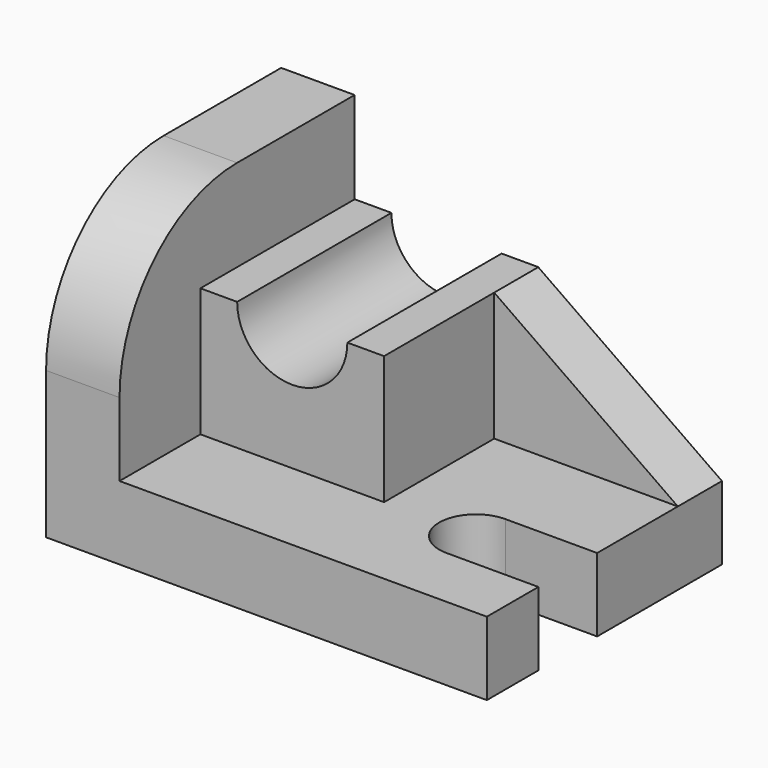
from build123d import *

# Parameters (mm, degrees)
F0_W      = 96
F0_H      = 64
F1_DEPTH  = 16
F2_W      = 16
F2_H      = 64
F3_DEPTH  = 48
F4_R      = 32
F5_W      = 40
F5_H      = 42
F6_DEPTH  = 28
F7_W      = 40
F7_H      = 12
F8_DEPTH  = 28
F10_DEPTH = 25.4
F11_R     = 12
F12_DEPTH = 63.246
F14_DEPTH = 25.4


with BuildPart() as f1:
    # F0 (on Top) → F1 (new body)
    with BuildSketch(Plane.XY):
        with Locations((-0.3420451991, 1.5907883644)):
            Rectangle(F0_W, F0_H)
    extrude(amount=F1_DEPTH)

    # F2 (on face) → F3 (join)
    with BuildSketch(Plane.XY.offset(16)):
        with Locations((-40.3420451991, 1.5907883644)):
            Rectangle(F2_W, F2_H)
    extrude(amount=F3_DEPTH)

    # F4
    f4_edges = [f1.edges().sort_by_distance(p)[0] for p in [
        (-40.342045, -30.409212, 64),
    ]]
    fillet(f4_edges, radius=F4_R)

    # F5 (on face) → F6 (join)
    with BuildSketch(Plane.XY.offset(16)):
        with Locations((-12.3420451991, 12.61113044)):
            Rectangle(F5_W, F5_H)
    extrude(amount=F6_DEPTH)

    # F7 (on face) → F8 (join)
    with BuildSketch(Plane.XY.offset(16)):
        with Locations((27.6579548009, 27.5907883644)):
            Rectangle(F7_W, F7_H)
    extrude(amount=F8_DEPTH)

    # F9 (on face) → F10 (cut)
    with BuildSketch(Plane.XZ.offset(-21.5907883644)):
        Polygon((47.6579548009, 44), (7.6579548009, 44), (47.6579548009, 16), align=None)
    extrude(amount=-F10_DEPTH, mode=Mode.SUBTRACT)

    # F11 (on face) → F12 (cut)
    with BuildSketch(Plane.XZ.offset(8.38886956)):
        with Locations((-12.3420451991, 44)):
            Circle(F11_R)
    extrude(amount=-F12_DEPTH, mode=Mode.SUBTRACT)

    # F13 (on face) → F14 (cut)
    with BuildSketch(Plane.XY.offset(16)):
        with BuildLine():
            ThreePointArc((35.6579548009, -8.3714298824), (33.3148090504, -2.714575633), (27.6579548009, -0.3714298824))
            Line((27.6579548009, -0.3714298824), (27.6579548009, -16.3714298824))
            ThreePointArc((27.6579548009, -16.3714298824), (33.3148090504, -14.0282841319), (35.6579548009, -8.3714298824))
        make_face()
        with BuildLine():
            Line((47.6579548009, -0.3714298824), (27.6579548009, -0.3714298824))
            ThreePointArc((27.6579548009, -0.3714298824), (33.3148090504, -2.714575633), (35.6579548009, -8.3714298824))
            ThreePointArc((35.6579548009, -8.3714298824), (33.3148090504, -14.0282841319), (27.6579548009, -16.3714298824))
            Line((27.6579548009, -16.3714298824), (47.6579548009, -16.3714298824))
            Line((47.6579548009, -16.3714298824), (47.6579548009, -0.3714298824))
        make_face()
        with BuildLine():
            Line((27.6579548009, -16.3714298824), (27.6579548009, -0.3714298824))
            ThreePointArc((27.6579548009, -0.3714298824), (19.6579548009, -8.3714298824), (27.6579548009, -16.3714298824))
        make_face()
    extrude(amount=-F14_DEPTH, mode=Mode.SUBTRACT)


solid = f1.part
